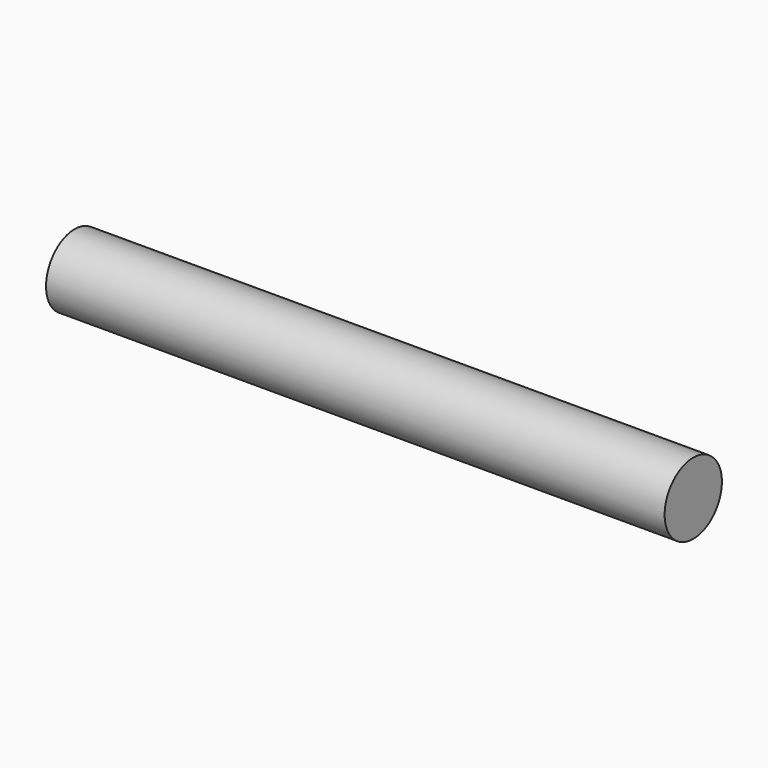
from build123d import *

# Parameters (mm, degrees)
SKETCH_R  = 11
PAD_DEPTH = 190


with BuildPart() as part:
    # Sketch → Pad (new body)
    with BuildSketch(Plane.YZ):
        Circle(SKETCH_R)
    extrude(amount=PAD_DEPTH)


solid = part.part
